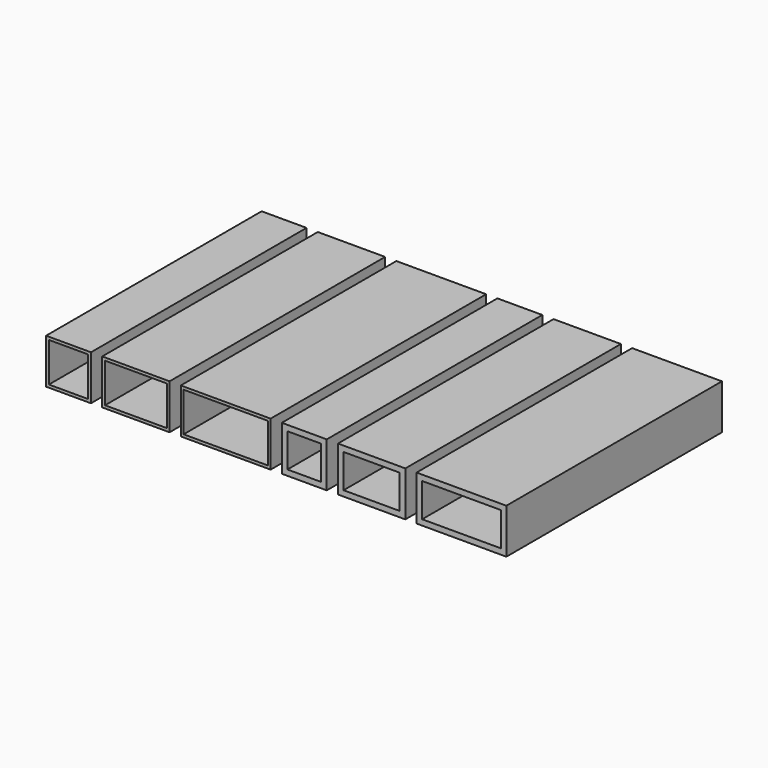
from build123d import *

# Parameters (mm, degrees)
F0_W     = 25.4
F0_H     = 25.4
F0_W_2   = 22.225
F0_H_2   = 22.225
F0_W_3   = 38.1
F0_W_4   = 34.925
F0_W_5   = 50.8
F0_W_6   = 47.625
F0_W_7   = 19.05
F0_H_3   = 19.05
F0_W_8   = 31.75
F0_W_9   = 44.45
F1_DEPTH = 152.4


with BuildPart() as f1:
    # F0 (on Front) → F1 (new body)
    with BuildSketch(Plane.XZ):
        with Locations((12.7, 12.7)):
            Rectangle(F0_W, F0_H)
        with Locations((12.7, 12.7)):
            Rectangle(F0_W_2, F0_H_2, mode=Mode.SUBTRACT)
        with Locations((50.8, 12.7)):
            Rectangle(F0_W_3, F0_H)
        with Locations((50.8, 12.7)):
            Rectangle(F0_W_4, F0_H_2, mode=Mode.SUBTRACT)
        with Locations((101.6, 12.7)):
            Rectangle(F0_W_5, F0_H)
        with Locations((101.6, 12.7)):
            Rectangle(F0_W_6, F0_H_2, mode=Mode.SUBTRACT)
        with Locations((146.05, 12.7)):
            Rectangle(F0_W, F0_H)
        with Locations((146.05, 12.7)):
            Rectangle(F0_W_7, F0_H_3, mode=Mode.SUBTRACT)
        with Locations((184.15, 12.7)):
            Rectangle(F0_W_3, F0_H)
        with Locations((184.15, 12.7)):
            Rectangle(F0_W_8, F0_H_3, mode=Mode.SUBTRACT)
        with Locations((234.95, 12.7)):
            Rectangle(F0_W_5, F0_H)
        with Locations((234.95, 12.7)):
            Rectangle(F0_W_9, F0_H_3, mode=Mode.SUBTRACT)
    extrude(amount=F1_DEPTH)


solid = f1.part
